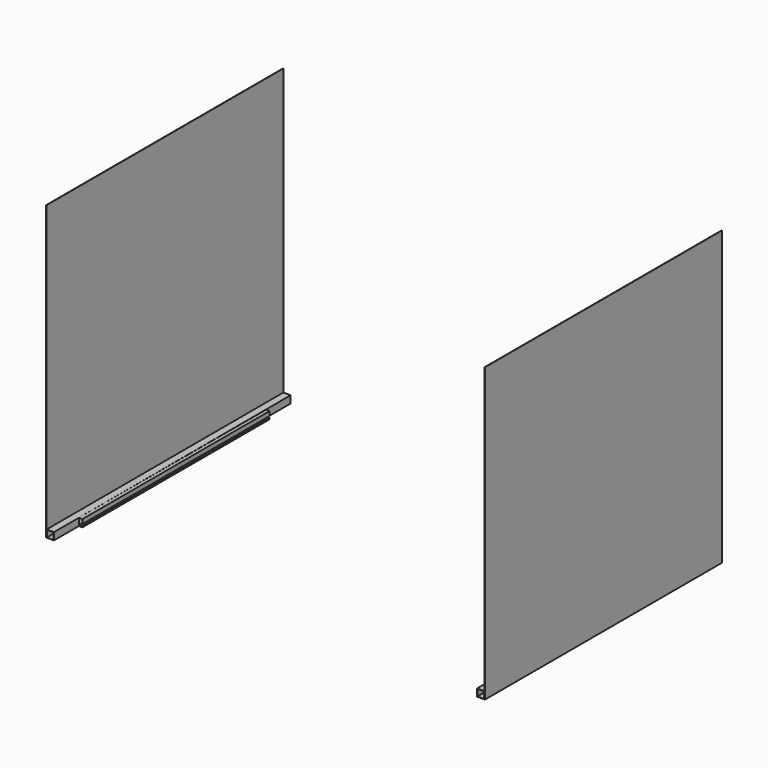
from build123d import *

# Parameters (mm, degrees)
F1_DEPTH = 2000
F2_W     = 50
F2_H     = 50
F2_W_2   = 46
F2_H_2   = 46
F3_DEPTH = 2025
F7_DEPTH = 800


with BuildPart() as f1:
    # F0 (on Top) → F1 (new body)
    with BuildSketch(Plane.XY):
        Polygon((0.999999, 1012.499), (-1, 1012.501), (-1, -1012.499), (0.999999, -1012.501), align=None)
    extrude(amount=F1_DEPTH)


with BuildPart() as f3:
    # F2 (on face) → F3 (new body)
    with BuildSketch(Plane(origin=(-1.012499, -1012.498988, 0), x_dir=(1, -0.001, 0), z_dir=(-0.001, -1, 0))):
        with Locations((-27.012499, 25)):
            Rectangle(F2_W, F2_H)
        with Locations((-27.012499, 25)):
            Rectangle(F2_W_2, F2_H_2, mode=Mode.SUBTRACT)
    extrude(amount=-F3_DEPTH)


with BuildPart() as f5_1:
    # F5: instance of F1
    add(f1.part.mirror(Plane(origin=(-1499.000001, -0.001, 1000), x_dir=(0, 1, 0), z_dir=(1, 0, 0))))


with BuildPart() as f5_2:
    # F5: instance of F3
    add(f3.part.mirror(Plane(origin=(-1499.000001, -0.001, 1000), x_dir=(0, 1, 0), z_dir=(1, 0, 0))))


with BuildPart() as f7:
    # F6 (on Front) → F7 (new body, symmetric)
    with BuildSketch(Plane.XZ):
        Polygon((-53.024972, 0), (-53.024972, 50), (-77.273047, 50), (-77.273047, 20), (-67.273047, 20), (-67.273047, 10), (-77.273047, 10), (-77.273047, 0), align=None)
        Polygon((-2930.726954, 10), (-2930.726954, 20), (-2920.726954, 20), (-2920.726954, 50), (-2944.975029, 50), (-2944.975029, 0), (-2920.726954, 0), (-2920.726954, 10), align=None)
    extrude(amount=F7_DEPTH, both=True)


solid = Compound([f1.part, f3.part, f5_1.part, f5_2.part, f7.part])
